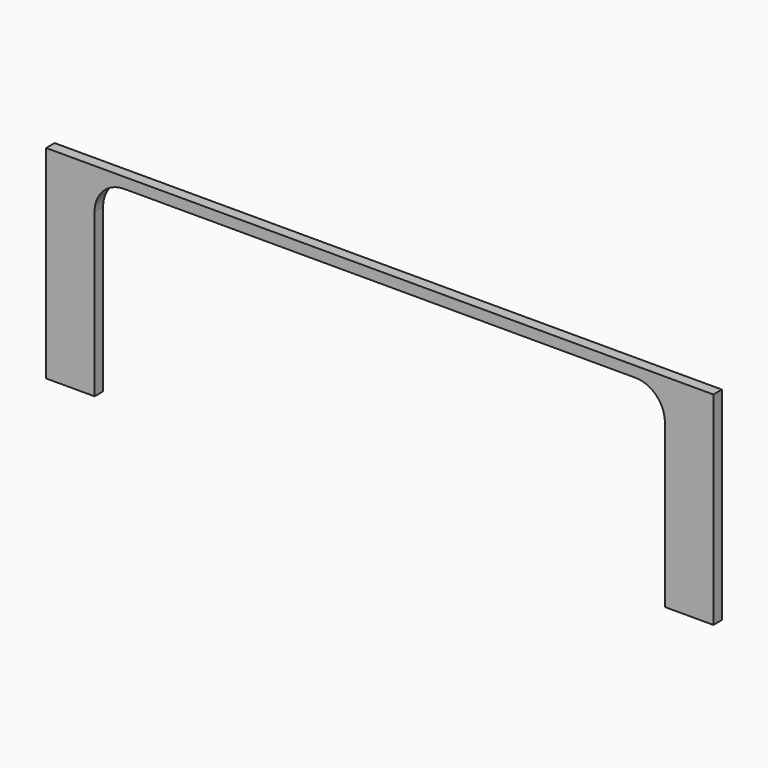
from build123d import *

# Parameters (mm, degrees)
F1_DEPTH = 18


with BuildPart() as f1:
    # F0 (on Front) → F1 (new body)
    with BuildSketch(Plane.XZ):
        with BuildLine():
            Line((0, 343), (0, 0))
            Line((0, 0), (82, 0))
            Line((82, 0), (82, 275))
            ThreePointArc((82, 275), (96.644661, 310.355339), (132, 325))
            Line((132, 325), (996, 325))
            ThreePointArc((996, 325), (1031.355339, 310.355339), (1046, 275))
            Line((1046, 275), (1046, 0))
            Line((1046, 0), (1128, 0))
            Line((1128, 0), (1128, 343))
            Line((1128, 343), (0, 343))
        make_face()
    extrude(amount=F1_DEPTH)


solid = f1.part
